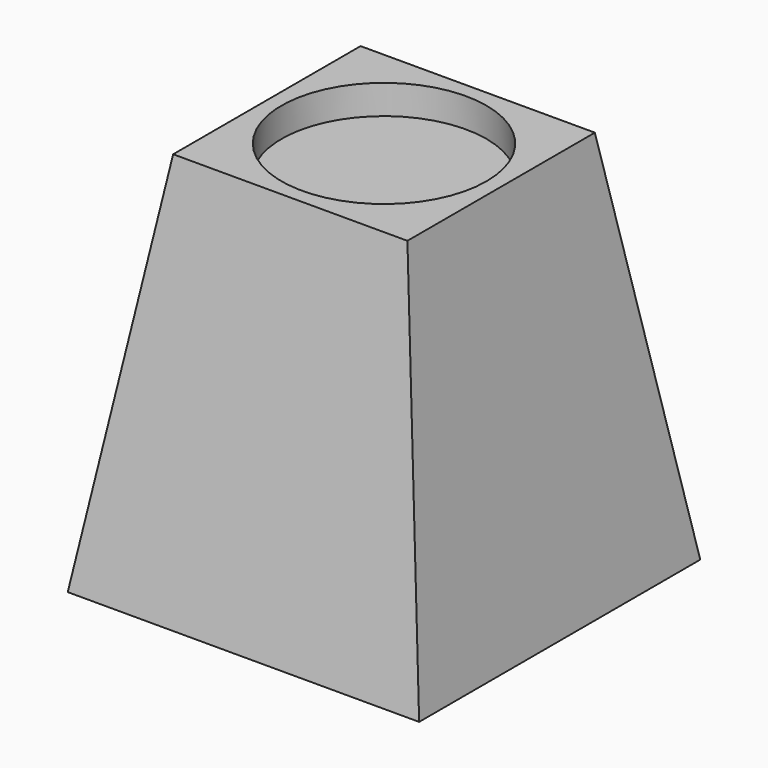
from build123d import *

# Parameters (mm, degrees)
F0_W     = 120
F0_H     = 120
F2_W     = 80
F2_H     = 80
F4_R     = 35
F5_DEPTH = 10


with BuildPart() as f3:
    # F0 (on Top) → F3 section 0
    with BuildSketch(Plane.XY):
        Rectangle(F0_W, F0_H)
    # F2 (on offset) → F3 section 1
    with BuildSketch(Plane.XY.offset(130)):
        Rectangle(F2_W, F2_H)
    loft()

    # F4 (on face) → F5 (cut)
    with BuildSketch(Plane.XY.offset(130)):
        Circle(F4_R)
    extrude(amount=-F5_DEPTH, mode=Mode.SUBTRACT)


solid = f3.part
